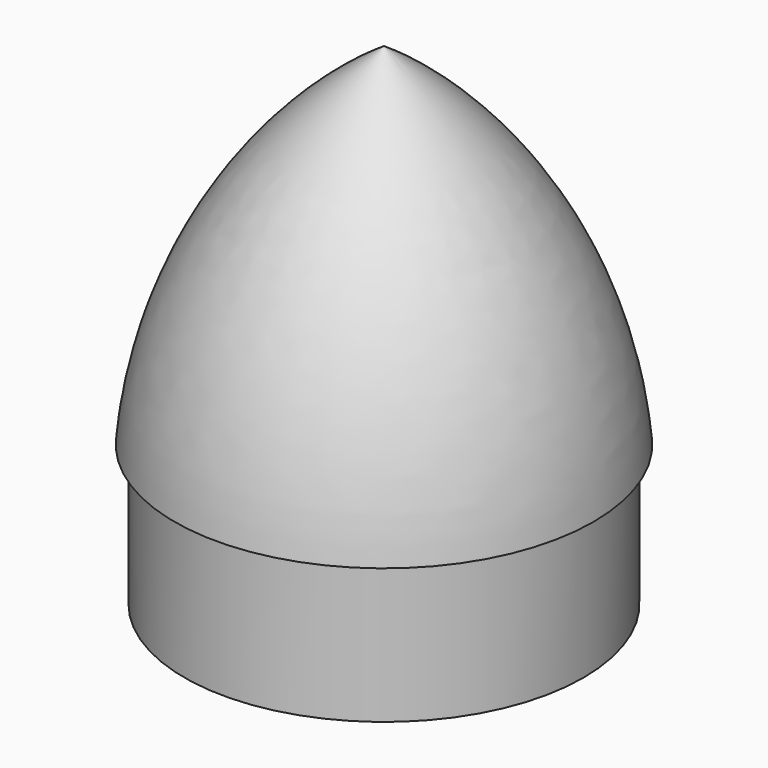
from build123d import *


with BuildPart() as f1:
    # F0 (on Front) → F1 (revolve)
    with BuildSketch(Plane.XZ):
        with BuildLine():
            Line((32.258, 29.458879), (32.258, 20.209176))
            Line((32.258, 20.209176), (33.8455, 20.209176))
            Line((33.8455, 20.209176), (33.8455, 44.021676))
            Line((33.8455, 44.021676), (35.53259, 44.021676))
            ThreePointArc((35.53259, 44.021676), (24.603532, 77.848371), (0, 103.506816))
            Line((0, 103.506816), (0, 101.6))
            ThreePointArc((0, 101.6), (23.063776, 77.328925), (33.782, 45.609176))
            Line((33.782, 45.609176), (32.258, 45.609176))
            Line((32.258, 45.609176), (32.258, 29.458879))
        make_face()
    revolve(axis=Axis((0, 0, 50.8), (0, 0, 1)))


solid = f1.part
